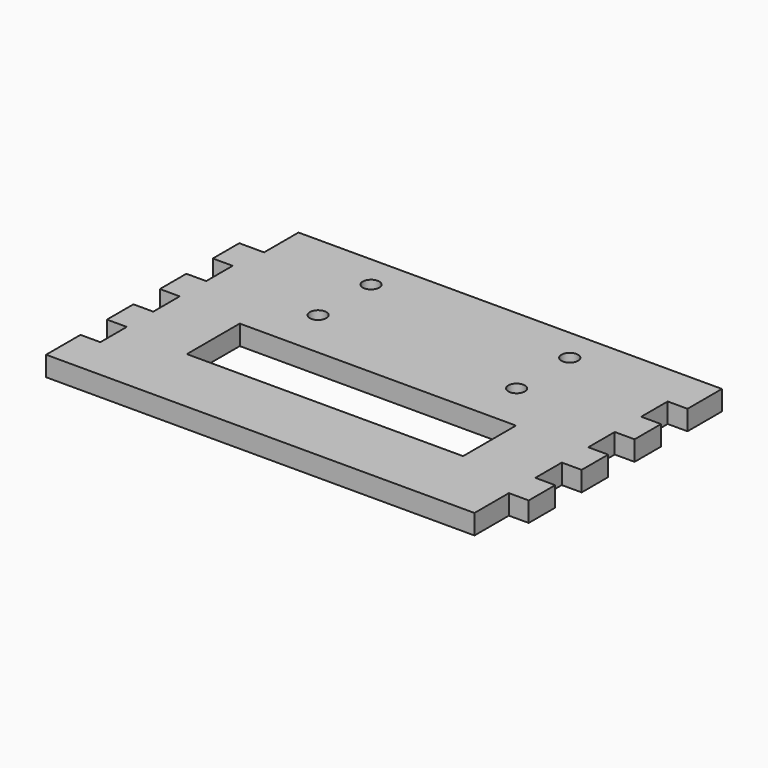
from build123d import *

# Parameters (mm, degrees)
F0_R     = 2.5
F1_DEPTH = 6


with BuildPart() as f1:
    # F0 (on Top) → F1 (new body)
    with BuildSketch(Plane.XY):
        Polygon((-46.64715, -20), (-46.64715, -33), (82.85285, -33), (82.85285, -20), (88.85285, -20), (88.85285, -12), (88.85285, -10), (82.85285, -10), (82.85285, 0), (88.85285, 0), (88.85285, 10), (82.85285, 10), (82.85285, 20), (88.85285, 20), (88.85285, 30), (82.85285, 30), (82.85285, 40), (88.85285, 40), (88.85285, 53), (-39.14715, 53), (-39.14715, 40), (-46.64715, 40), (-46.64715, 30), (-40.64715, 30), (-40.64715, 20), (-46.64715, 20), (-46.64715, 10), (-40.64715, 10), (-40.64715, 0), (-46.64715, 0), (-46.64715, -10), (-40.64715, -10), (-40.64715, -20), align=None)
        Polygon((62.60285, 8), (62.60285, 0), (62.60285, -12), (-20.89715, -12), (-20.89715, 0), (-20.89715, 8), align=None, mode=Mode.SUBTRACT)
        with Locations((-9.14715, 22.913525)):
            Circle(F0_R, mode=Mode.SUBTRACT)
        with Locations((-9.14715, 42.913525)):
            Circle(F0_R, mode=Mode.SUBTRACT)
        with Locations((50.85285, 22.913525)):
            Circle(F0_R, mode=Mode.SUBTRACT)
        with Locations((50.85285, 43)):
            Circle(F0_R, mode=Mode.SUBTRACT)
    extrude(amount=F1_DEPTH)


solid = f1.part
